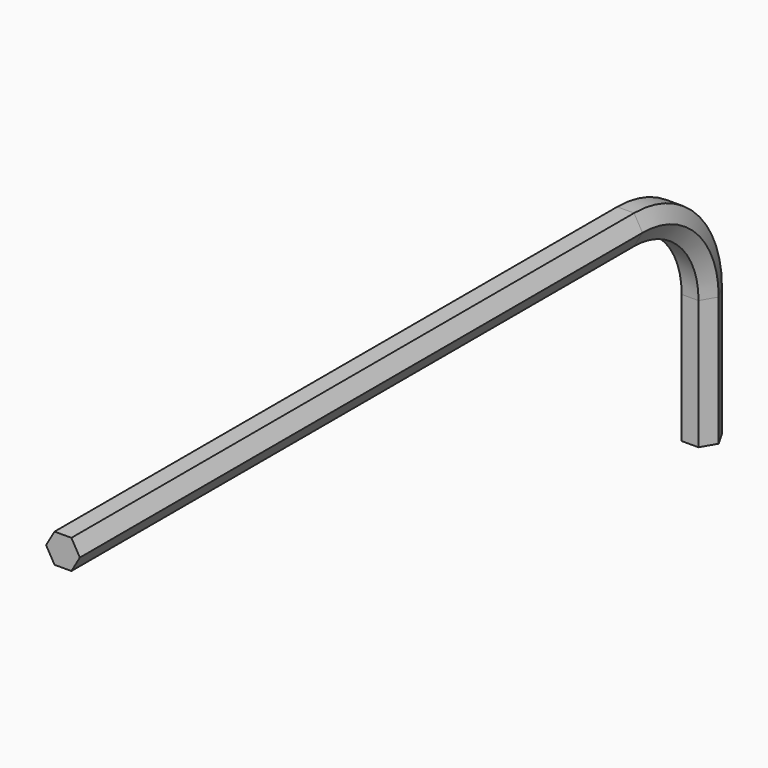
from build123d import *


with BuildPart() as f2:
    # F2: sweep along a path in F1
    with BuildLine(Plane.YZ) as f2_path:
        Line((0, 5.226784), (83.332258, 5.226784))
        ThreePointArc((83.332258, 5.226784), (95.006591, 0.391117), (99.842258, -11.283216))
        Line((99.842258, -11.283216), (99.842258, -26.583992))
    # F0 (on Front) → F2 (sweep)
    with BuildSketch(Plane.XZ):
        Polygon((-1, -1.732051), (1, -1.732051), (2, 0), (1, 1.732051), (-1, 1.732051), (-2, 0), align=None)
    sweep(path=f2_path.line)


solid = f2.part
